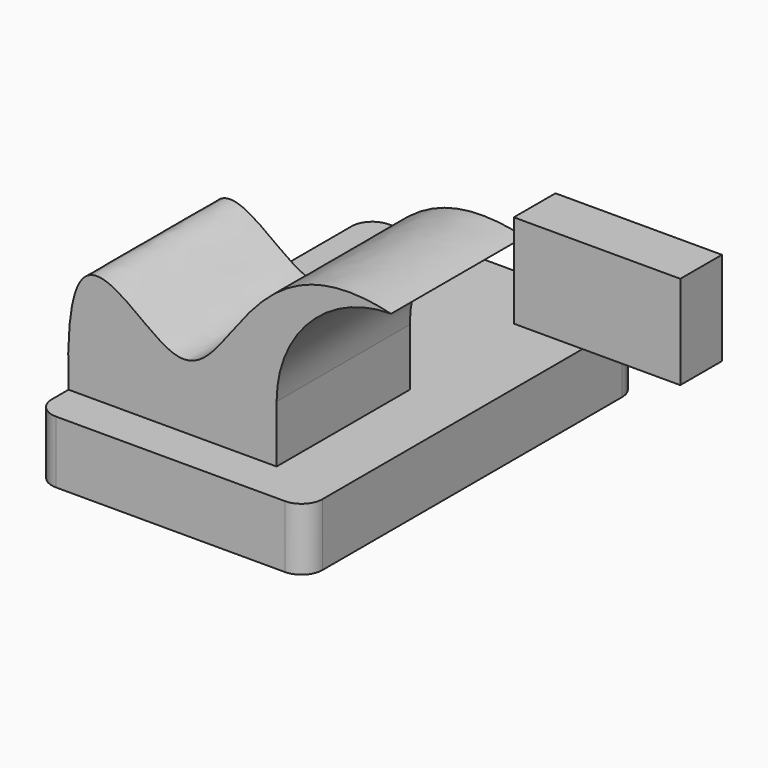
from build123d import *

# Parameters (mm, degrees)
F1_DEPTH = 63.5
F2_DEPTH = 50.8
F3_DEPTH = 7.9375
F4_R     = 6.35


with BuildPart() as f1:
    # F0 (on Front) → F1 (new body, symmetric)
    with BuildSketch(Plane.XZ):
        Polygon((-41.275, 9.525), (-41.275, -9.525), (41.275, -9.525), (41.275, 9.525), (22.225, 9.525), align=None)
    extrude(amount=F1_DEPTH, both=True)

    # F0 (on Front) → F2 (join)
    with BuildSketch(Plane.XZ):
        with BuildLine():
            add(Edge.make_bspline(
                [(-41.275, 9.525), (-43.1729070842, 66.6683614254), (7.3597787426, -11.7160947828), (11.1603401601, 73.1296166778), (57.15, 61.9252)],
                knots=[0, 0, 0, 0, 0.4178115384, 1, 1, 1, 1], degree=3))
            Line((-41.275, 9.525), (22.225, 9.525))
            Line((22.225, 9.525), (22.225, 27.0002))
            ThreePointArc((22.225, 27.0002), (32.4542956671, 51.6959043329), (57.15, 61.9252))
        make_face()
    extrude(amount=F2_DEPTH)

    # F4
    f4_edges = [f1.edges().sort_by_distance(p)[0] for p in [
        (-41.275, -63.5, 0),
        (41.275, -63.5, 0),
        (41.275, 63.5, 0),
        (-41.275, 63.5, 0),
    ]]
    fillet(f4_edges, radius=F4_R)


with BuildPart() as f3:
    # F0 (on Front) → F3 (new body, symmetric)
    with BuildSketch(Plane.XZ):
        Polygon((60.325, 71.4502), (60.325, 61.9252), (60.325, 42.8752), (85.725, 42.8752), (111.125, 42.8752), (111.125, 71.4502), align=None)
    extrude(amount=F3_DEPTH, both=True)


solid = Compound([f1.part, f3.part])
